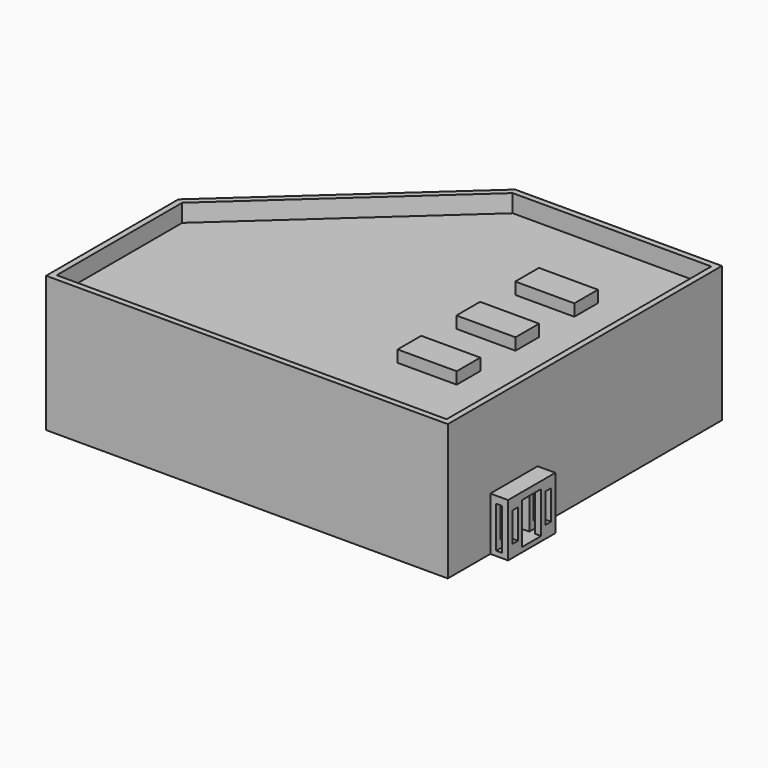
from build123d import *

# Parameters (mm, degrees)
F1_DEPTH  = 63.5
F2_T      = -3.175
F4_DEPTH  = 9.525
F5_W      = 31.75
F5_H      = 15.875
F6_DEPTH  = 6.35
F8_DEPTH  = 60.325
F9_W      = 31.75
F9_H      = 28.575
F10_DEPTH = 9.525
F11_W     = 12.7
F11_H     = 22.225
F11_W_2   = 3.81
F11_H_2   = 15.875
F12_DEPTH = 25.654
F13_W     = 3.175
F13_H     = 22.225
F14_DEPTH = 127


with BuildPart() as f1:
    # F0 (on Top) → F1 (new body)
    with BuildSketch(Plane.XY):
        Polygon((107.95, 92.075), (-3.175, 92.075), (-107.95, -3.175), (-107.95, -92.075), (107.95, -92.075), align=None)
    extrude(amount=F1_DEPTH)

    # F2
    f2_openings = [f1.faces().sort_by_distance(p)[0] for p in [
        (10.480538, -8.657836, 0),
    ]]
    offset(amount=F2_T, openings=f2_openings)

    # F3 (on face) → F4 (join)
    with BuildSketch(Plane.XY.offset(63.5)):
        Polygon((107.95, 92.075), (-3.175, 92.075), (-107.95, -3.175), (-107.95, -92.075), (107.95, -92.075), align=None)
        Polygon((104.775, -88.9), (-104.775, -88.9), (-104.775, -4.579524), (-1.947523, 88.9), (104.775, 88.9), align=None, mode=Mode.SUBTRACT)
    extrude(amount=F4_DEPTH)

    # F5 (on face) → F6 (join)
    with BuildSketch(Plane.XY.offset(63.5)):
        with Locations((61.147683, 39.524323)):
            Rectangle(F5_W, F5_H)
        with Locations((61.147683, 0)):
            Rectangle(F5_W, F5_H)
        with Locations((61.147683, -39.524323)):
            Rectangle(F5_W, F5_H)
    extrude(amount=F6_DEPTH)

    # F7 (on face) → F8 (join, through all)
    with BuildSketch(Plane(origin=(0, 0, 60.325), x_dir=(1, 0, 0), z_dir=(0, 0, -1))):
        Polygon((104.775, 29.21), (104.775, 31.75), (40.541738, 31.75), (40.541738, 88.9), (38.001738, 88.9), (38.001738, 29.21), align=None)
    extrude(amount=F8_DEPTH)

    # F9 (on face) → F10 (join)
    with BuildSketch(Plane.YZ.offset(107.95)):
        with Locations((-47.625, 14.2875)):
            Rectangle(F9_W, F9_H)
    extrude(amount=F10_DEPTH)

    # F11 (on face) → F12 (cut)
    with BuildSketch(Plane.YZ.offset(117.475)):
        with Locations((-47.625, 13.6525)):
            Rectangle(F11_W, F11_H)
        with Locations((-58.7375, 14.5415)):
            Rectangle(F11_W_2, F11_H_2)
        with Locations((-36.5125, 14.5415)):
            Rectangle(F11_W_2, F11_H_2)
    extrude(amount=-F12_DEPTH, mode=Mode.SUBTRACT)

    # F13 (on face) → F14 (cut)
    with BuildSketch(Plane.XZ.offset(63.5)):
        with Locations((112.7125, 13.6525)):
            Rectangle(F13_W, F13_H)
    extrude(amount=-F14_DEPTH, mode=Mode.SUBTRACT)


solid = f1.part
